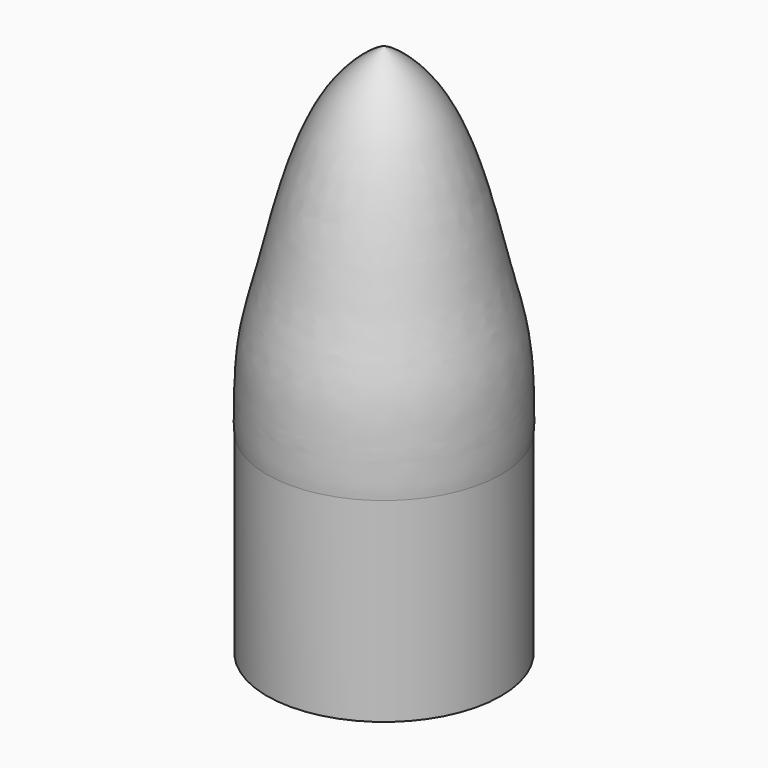
from build123d import *


with BuildPart() as f1:
    # F0 (on Front) → F1 (revolve)
    with BuildSketch(Plane.XZ):
        with BuildLine():
            Line((-13.8, 0), (-13, 0))
            Line((-13, 0), (-13, 23))
            Line((-13, 23), (0, 23))
            Line((0, 23), (0, 63))
            add(Edge.make_bspline(
                [(-13.8, 23), (-13.9004981842, 24.1983588353), (-13.8217098957, 27.9477065334), (-13.5269462558, 33.3072397231), (-11.6284027971, 39.972477662), (-10.0572768143, 47.2240184222), (-6.4339116135, 58.4837195711), (-1.3285912505, 62.5205067822), (0, 63)],
                knots=[0, 0, 0, 0, 0.1356176393, 0.2830628574, 0.4445012229, 0.6173228463, 0.8343143151, 1, 1, 1, 1], degree=3))
            Line((-13.8, 23), (-13.8, 0))
        make_face()
    revolve(axis=Axis((0, 0, 35.4424640536), (0, 0, 1)))


solid = f1.part
